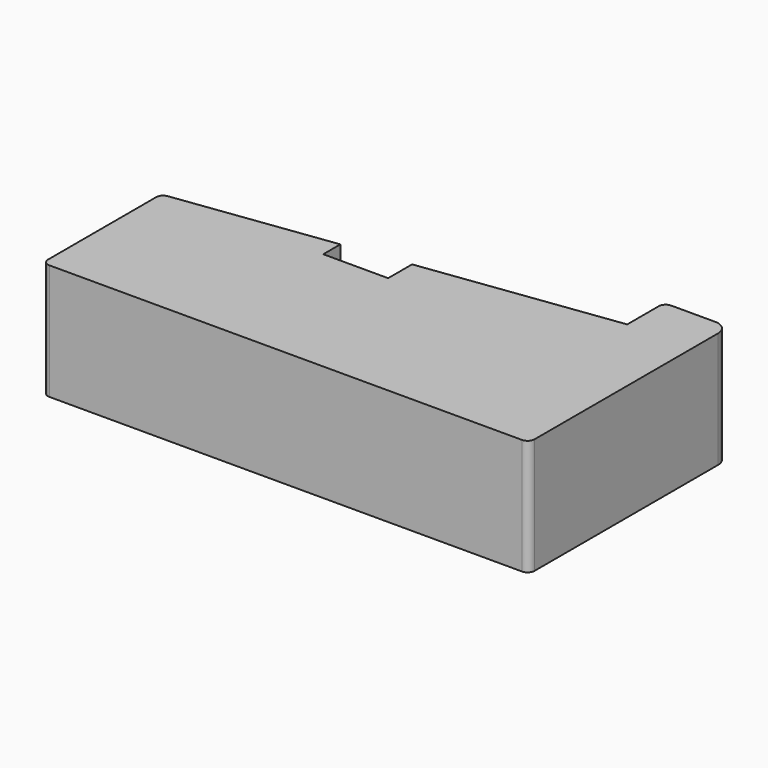
from build123d import *

# Parameters (mm, degrees)
F1_DEPTH = 25


with BuildPart() as f1:
    # F0 (on Top) → F1 (new body)
    with BuildSketch(Plane.XY):
        with BuildLine():
            Line((78.392473, -37.352152), (90.892473, -37.352152))
            ThreePointArc((90.892473, -37.352152), (91.953133, -36.912812), (92.392473, -35.852152))
            Line((92.392473, -35.852152), (92.392473, 13.645013))
            ThreePointArc((92.392473, 13.645013), (91.513793, 15.766334), (89.392473, 16.645013))
            Line((89.392473, 16.645013), (79.892644, 16.645013))
            ThreePointArc((79.892644, 16.645013), (78.831984, 16.205673), (78.392644, 15.145013))
            Line((78.392644, 15.145013), (78.392644, 6.645013))
            Line((78.392644, 6.645013), (36.392473, 1.107848))
            Line((36.392473, 1.107848), (36.392473, -5.352152))
            Line((36.392473, -5.352152), (36.392473, -37.352152))
            Line((36.392473, -37.352152), (78.392473, -37.352152))
        make_face()
        with BuildLine():
            Line((22.392473, -37.352152), (36.392473, -37.352152))
            Line((36.392473, -37.352152), (36.392473, -5.352152))
            Line((36.392473, -5.352152), (22.392473, -5.352152))
            Line((22.392473, -5.352152), (22.392473, -0.737866))
            Line((22.392473, -0.737866), (-11.303586, -5.180245))
            ThreePointArc((-11.303586, -5.180245), (-12.235376, -5.67846), (-12.607527, -6.667377))
            Line((-12.607527, -6.667377), (-12.607527, -35.852152))
            ThreePointArc((-12.607527, -35.852152), (-12.168187, -36.912812), (-11.107527, -37.352152))
            Line((-11.107527, -37.352152), (22.392473, -37.352152))
        make_face()
    extrude(amount=F1_DEPTH)


solid = f1.part
